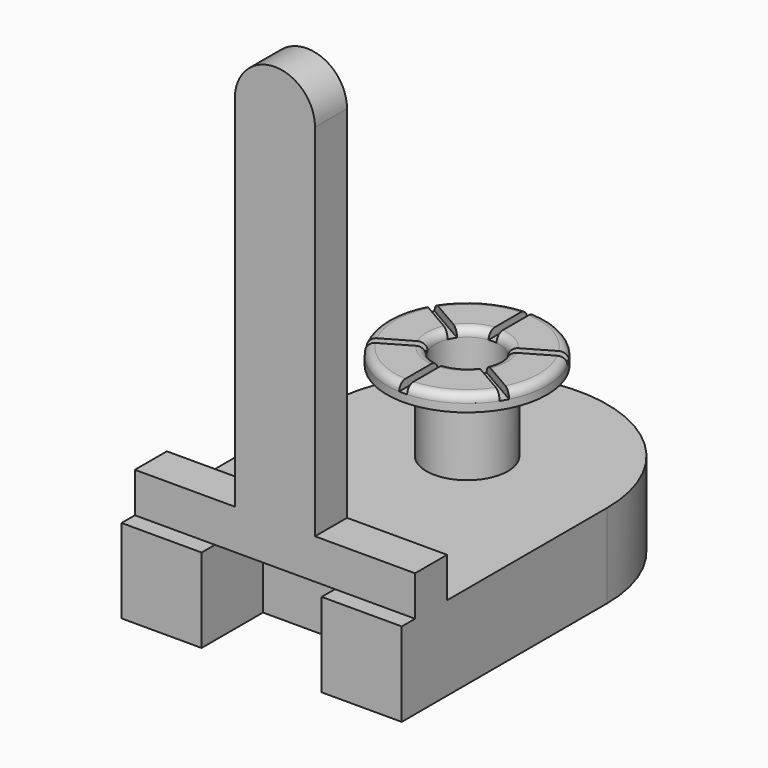
from build123d import *

# Parameters (mm, degrees)
SKETCH057_R           = 0.5
SKETCH057_W           = 1.5
SKETCH057_H           = 1
PAD032_DEPTH          = 0.5
PAD032_DEPTH_BACK     = 0.55
SKETCH058_W           = 4.919434
SKETCH058_H           = 5.037946
POCKET024_DEPTH       = 1.05
POCKET024_DEPTH_BACK  = 1.55
SKETCH063_W           = 1.496239
SKETCH063_H           = 0.320585
POCKET027_DEPTH       = 5
SKETCH059_R           = 0.51
SKETCH059_R_2         = 0.4
PAD033_DEPTH          = 1.5
SKETCH060_R           = 1
PAD034_DEPTH          = 0.2
SKETCH061_R           = 0.4
POCKET025_DEPTH       = 1
FILLET026_R           = 0.1
SKETCH062_W           = 0.1
SKETCH062_H           = 1.784702
POCKET026_DEPTH       = 0.1
POLARPATTERN007_COUNT = 6
PAD035_DEPTH          = 0.25


with BuildPart() as part:
    # Sketch057 → Pad032 (new body, two sides)
    with BuildSketch(Plane.XY) as pad032_sk:
        with BuildLine():
            ThreePointArc((1.75, 0), (0, 1.75), (-1.75, 0))
            Line((-1.75, 0), (-1.75, -4.25))
            Line((-1.75, -4.25), (-1.75, -8))
            Line((-1.75, -8), (1.75, -8))
            Line((1.75, -8), (1.75, -4.25))
            Line((1.75, -4.25), (1.75, 0))
        make_face()
        Circle(SKETCH057_R, mode=Mode.SUBTRACT)
        with Locations((0, -2.75)):
            Rectangle(SKETCH057_W, SKETCH057_H, mode=Mode.SUBTRACT)
    extrude(amount=PAD032_DEPTH)
    extrude(pad032_sk.sketch, amount=-PAD032_DEPTH_BACK)

    # Sketch058 → Pocket024 (cut, two sides)
    with BuildSketch(Plane.XY) as pocket024_sk:
        with Locations((-0.357018, -5.727314)):
            Rectangle(SKETCH058_W, SKETCH058_H)
    extrude(amount=-POCKET024_DEPTH, mode=Mode.SUBTRACT)
    extrude(pocket024_sk.sketch, amount=POCKET024_DEPTH_BACK, mode=Mode.SUBTRACT)

    # Sketch063 → Pocket027 (cut)
    with BuildSketch(Plane.XY):
        with Locations((-0.005068, -3.405655)):
            Rectangle(SKETCH063_W, SKETCH063_H)
    extrude(amount=-POCKET027_DEPTH, mode=Mode.SUBTRACT)

    # Sketch059 → Pad033 (join)
    with BuildSketch(Plane.XY):
        Circle(SKETCH059_R)
        Circle(SKETCH059_R_2, mode=Mode.SUBTRACT)
    extrude(amount=PAD033_DEPTH)

    # Sketch060 → Pad034 (join)
    with BuildSketch(Plane.XY.offset(1.5)):
        Circle(SKETCH060_R)
    extrude(amount=PAD034_DEPTH)

    # Sketch061 → Pocket025 (cut)
    with BuildSketch(Plane.XY.offset(1.7)):
        Circle(SKETCH061_R)
    extrude(amount=-POCKET025_DEPTH, mode=Mode.SUBTRACT)

    # Fillet026
    fillet026_edges = [part.edges().sort_by_distance(p)[0] for p in [
        (-0.4, 0, 1.7),
        (-1, 0, 1.7),
    ]]
    fillet(fillet026_edges, radius=FILLET026_R)

    # Sketch062 → Pocket026 (cut)
    with BuildSketch(Plane.XY.offset(1.7)):
        with Locations((0, 0.892351)):
            Rectangle(SKETCH062_W, SKETCH062_H)
    pocket026 = extrude(amount=-POCKET026_DEPTH, mode=Mode.SUBTRACT)

    # PolarPattern007: Pocket026 ×6 about axis
    polarpattern007_axis = Axis((0, 0, 1.7), (0, 0, 1))
    for i in range(1, POLARPATTERN007_COUNT):
        add(pocket026.rotate(polarpattern007_axis, i * 360 / POLARPATTERN007_COUNT), mode=Mode.SUBTRACT)

    # Sketch064 → Pad035 (join, symmetric)
    with BuildSketch(Plane(origin=(0, -2.75, -0.05), x_dir=(-1, 0, 0), z_dir=(0, -1, 0))):
        with BuildLine():
            Line((-1.75, -0.55), (1.75, -0.55))
            Line((1.75, -0.55), (1.75, -1.05))
            Line((0.5, -1.05), (1.75, -1.05))
            Line((0.5, -5.55), (0.5, -1.05))
            ThreePointArc((-0.5, -5.55), (0, -6.05), (0.5, -5.55))
            Line((-0.5, -1.05), (-0.5, -5.55))
            Line((-1.75, -1.05), (-0.5, -1.05))
            Line((-1.75, -1.05), (-1.75, -0.55))
        make_face()
    extrude(amount=PAD035_DEPTH, both=True)


with BuildPart() as part_1:
    # Body021 placement: moved
    add(part.part.moved(Location((-5, 0, 0))))


solid = part_1.part
